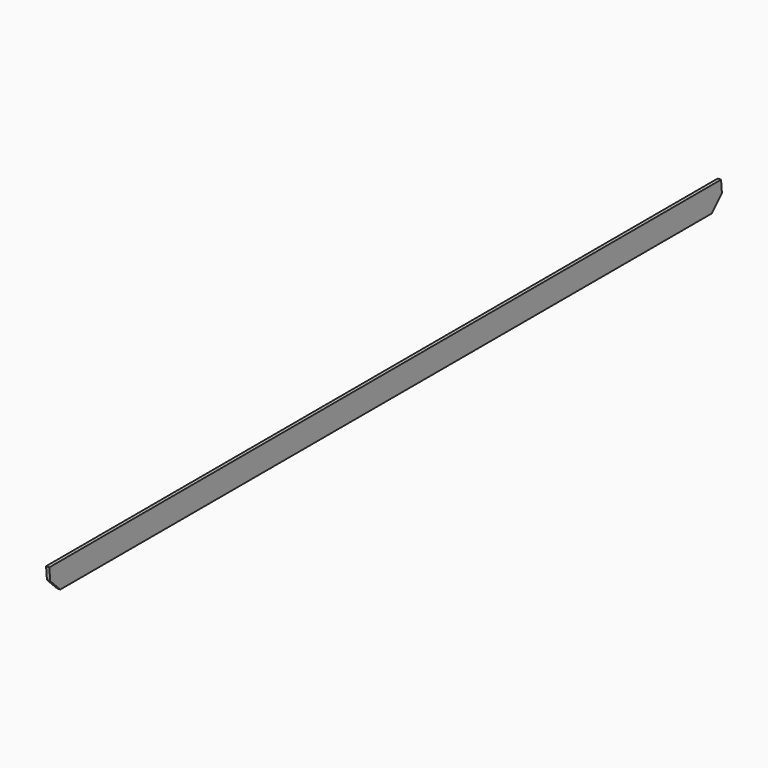
from build123d import *

# Parameters (mm, degrees)
F0_W     = 38.1
F0_H     = 292.1
F1_DEPTH = 9791.7
F3_DEPTH = 38.101
F5_DEPTH = 38.101


with BuildPart() as f1:
    # F0 (on Front) → F1 (new body)
    with BuildSketch(Plane.XZ):
        with Locations((-19.05, 146.05)):
            Rectangle(F0_W, F0_H)
    extrude(amount=F1_DEPTH)

    # F2 (on face) → F3 (cut, through all)
    with BuildSketch(Plane.YZ):
        Polygon((-9779.230452, 146.05), (-9791.7, 292.1), (-9791.7, 0), (-9633.180452, 0), align=None)
    extrude(amount=-F3_DEPTH, mode=Mode.SUBTRACT)

    # F4 (on face) → F5 (cut, through all)
    with BuildSketch(Plane.YZ):
        Polygon((-146.05, 0), (0, 0), (0, 146.05), align=None)
        Polygon((-12.469548, 292.1), (0, 146.05), (0, 292.1), align=None)
    extrude(amount=-F5_DEPTH, mode=Mode.SUBTRACT)


solid = f1.part
